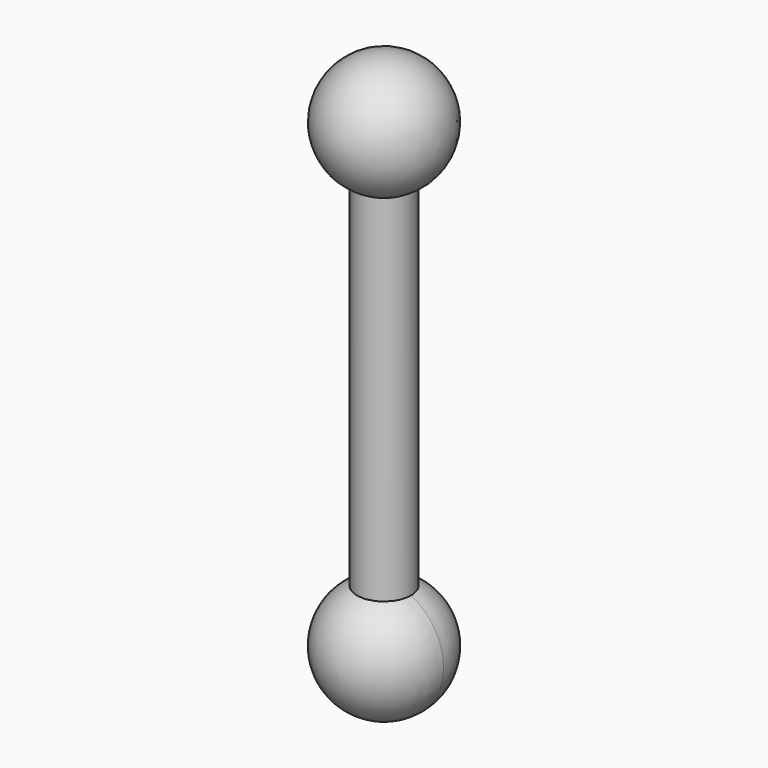
from build123d import *

# Parameters (mm, degrees)
F5_R     = 8.907736
F6_DEPTH = 152.4


with BuildPart() as f4:
    # F2 (on face) → F4 (revolve)
    with BuildSketch(Plane.XY):
        with BuildLine():
            ThreePointArc((19.675893, 0), (13.912958, 13.912958), (0, 19.675893))
            Line((0, 19.675893), (0, -19.675893))
            ThreePointArc((0, -19.675893), (13.912958, -13.912958), (19.675893, 0))
        make_face()
    revolve(axis=Axis((0, -1.149671, 0), (0, 1, 0)))


with BuildPart() as f6:
    # F5 (on Top) → F6 (new body)
    with BuildSketch(Plane.XY):
        Circle(F5_R)
    extrude(amount=F6_DEPTH)

    # F7 (on face) → F8 (revolve)
    with BuildSketch(Plane.XY.offset(152.4)):
        with BuildLine():
            Line((0, -8.907736), (0, -19.64515))
            ThreePointArc((0, -19.64515), (19.64515, 0), (0, 19.64515))
            Line((0, 19.64515), (0, 8.907736))
            ThreePointArc((0, 8.907736), (6.29872, 6.29872), (8.907736, 0))
            ThreePointArc((8.907736, 0), (6.29872, -6.29872), (0, -8.907736))
        make_face()
        with BuildLine():
            ThreePointArc((0, 8.907736), (-8.907736, 0), (0, -8.907736))
            Line((0, -8.907736), (0, 0))
            Line((0, 0), (0, 8.907736))
        make_face()
    revolve(axis=Axis((0, -9.822575, 152.4), (0, -1, 0)))


solid = Compound([f4.part, f6.part])
